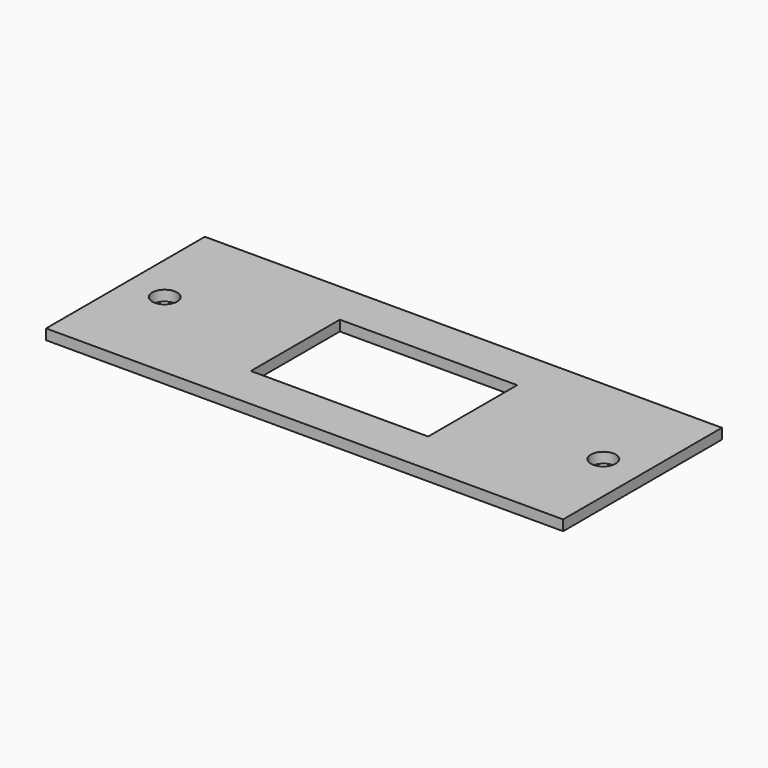
from build123d import *

# Parameters (mm, degrees)
F0_W     = 99
F0_H     = 38
F0_W_2   = 33.95
F0_H_2   = 21.3
F1_DEPTH = 2
F2_R     = 2.38125
F3_DEPTH = 2.001


with BuildPart() as f1:
    # F0 (on Top) → F1 (new body)
    with BuildSketch(Plane.XY):
        with Locations((49.5, 19)):
            Rectangle(F0_W, F0_H)
        with Locations((49.5, 19)):
            Rectangle(F0_W_2, F0_H_2, mode=Mode.SUBTRACT)
    extrude(amount=F1_DEPTH)

    # F2 (on face) → F3 (cut, through all)
    with BuildSketch(Plane.XY.offset(2)):
        with Locations((7.5, 19)):
            Circle(F2_R)
        with Locations((91.5, 19)):
            Circle(F2_R)
    extrude(amount=-F3_DEPTH, mode=Mode.SUBTRACT)


solid = f1.part
